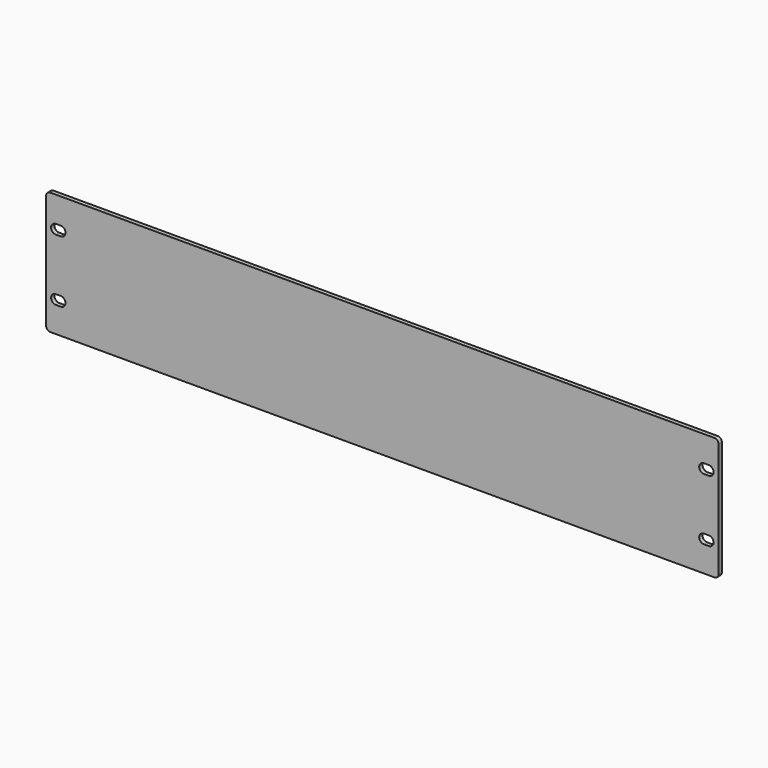
from build123d import *

# Parameters (mm, degrees)
F0_W     = 482.6
F0_H     = 88.1
F1_DEPTH = 3
F2_R     = 3
F4_DEPTH = 3


with BuildPart() as f1:
    # F0 (on Front) → F1 (new body)
    with BuildSketch(Plane.XZ):
        Rectangle(F0_W, F0_H)
    extrude(amount=-F1_DEPTH)

    # F2
    f2_edges = [f1.edges().sort_by_distance(p)[0] for p in [
        (-241.3, 1.5, 44.05),
        (241.3, 1.5, 44.05),
        (241.3, 1.5, -44.05),
        (-241.3, 1.5, -44.05),
    ]]
    fillet(f2_edges, radius=F2_R)

    # F3 (on Front) → F4 (cut, through all)
    with BuildSketch(Plane.XZ):
        with BuildLine():
            Line((-234.3, 18.8), (-230.8, 18.8))
            ThreePointArc((-230.8, 18.8), (-227.4, 22.2), (-230.8, 25.6))
            Line((-230.8, 25.6), (-234.3, 25.6))
            ThreePointArc((-234.3, 25.6), (-237.7, 22.2), (-234.3, 18.8))
        make_face()
        with BuildLine():
            ThreePointArc((230.8, 25.6), (227.4, 22.2), (230.8, 18.8))
            Line((230.8, 18.8), (234.3, 18.8))
            ThreePointArc((234.3, 18.8), (237.7, 22.2), (234.3, 25.6))
            Line((234.3, 25.6), (230.8, 25.6))
        make_face()
        with BuildLine():
            Line((230.8, -25.6), (234.3, -25.6))
            ThreePointArc((234.3, -25.6), (237.7, -22.2), (234.3, -18.8))
            Line((234.3, -18.8), (230.8, -18.8))
            ThreePointArc((230.8, -18.8), (227.4, -22.2), (230.8, -25.6))
        make_face()
        with BuildLine():
            ThreePointArc((-230.8, -25.6), (-227.4, -22.2), (-230.8, -18.8))
            Line((-230.8, -18.8), (-234.3, -18.8))
            ThreePointArc((-234.3, -18.8), (-237.7, -22.2), (-234.3, -25.6))
            Line((-234.3, -25.6), (-230.8, -25.6))
        make_face()
    extrude(amount=-F4_DEPTH, mode=Mode.SUBTRACT)


solid = f1.part
